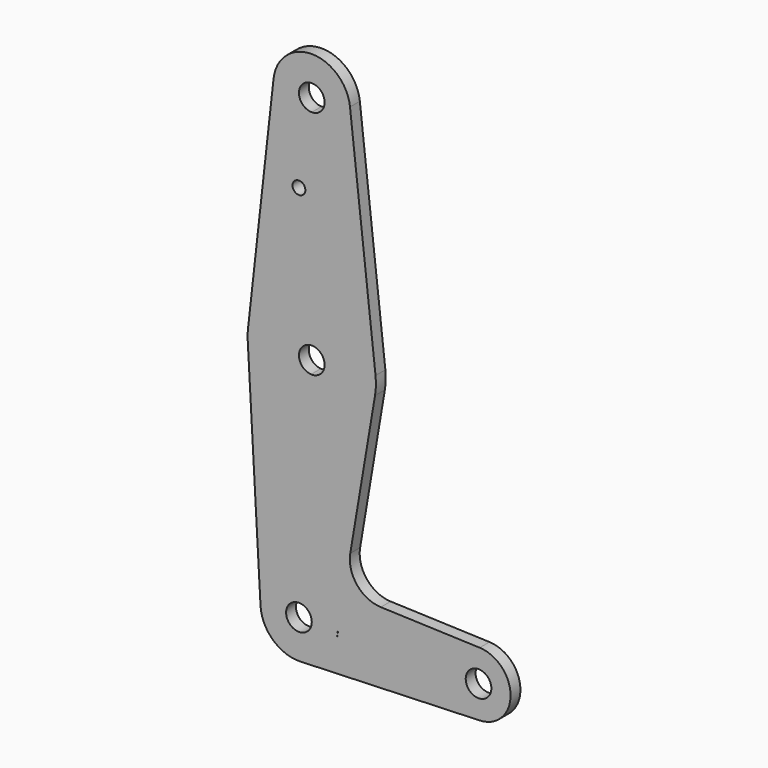
from build123d import *

# Parameters (mm, degrees)
F0_R     = 1.5875
F1_DEPTH = 3.048


with BuildPart() as f1:
    # F0 (on Front) → F1 (new body)
    with BuildSketch(Plane.XZ):
        with BuildLine():
            ThreePointArc((47.638384, 0), (44.463384, 3.175), (41.288384, 0))
            ThreePointArc((41.288384, 0), (44.463384, -3.175), (47.638384, 0))
        make_face()
        with BuildLine():
            ThreePointArc((6.35, 114.3), (0.929936, 116.545064), (3.175, 111.125))
            ThreePointArc((3.175, 111.125), (5.420064, 112.054936), (6.35, 114.3))
        make_face()
        with BuildLine():
            Line((12.707548, 18.074335), (18.835395, 54.469139))
            ThreePointArc((18.835395, 54.469139), (19.049719, 56.665666), (18.957459, 58.870695))
            Line((18.957459, 58.870695), (12.641004, 115.358487))
            ThreePointArc((12.641004, 115.358487), (3.175, 123.825), (-6.291004, 115.358487))
            Line((-6.291004, 115.358487), (-12.607459, 58.870695))
            ThreePointArc((-12.607459, 58.870695), (-12.699678, 57.547593), (-12.681171, 56.221411))
            Line((-12.681171, 56.221411), (-9.515411, -0.53079))
            ThreePointArc((-9.515411, -0.53079), (-6.423296, -7.040315), (0.341764, -9.524073))
            Line((0.341764, -9.524073), (44.747967, -7.930593))
            ThreePointArc((44.747967, -7.930593), (52.399082, 0), (44.747967, 7.930593))
            Line((44.747967, 7.930593), (20.262296, 8.809242))
            ThreePointArc((20.262296, 8.809242), (14.385888, 11.730239), (12.707548, 18.074335))
        make_face()
        with BuildLine():
            ThreePointArc((0.176253, 3.170104), (2.306537, 2.18186), (3.175, 0))
            ThreePointArc((3.175, 0), (-2.306537, -2.18186), (0.176253, 3.170104))
        make_face(mode=Mode.SUBTRACT)
        with BuildLine():
            Line((0.52915, 9.517349), (0.529048, 9.515508))
            ThreePointArc((0.529048, 9.515508), (0.435427, 9.520251), (0.341764, 9.524073))
            Line((0.341764, 9.524073), (0.52915, 9.517349))
        make_face(mode=Mode.SUBTRACT)
        with BuildLine():
            ThreePointArc((9.397924, -1.582342), (9.497076, -0.793931), (9.530203, 0))
            Line((9.530203, 0), (9.664345, 0))
            Line((9.664345, 0), (9.397924, -1.582342))
        make_face(mode=Mode.SUBTRACT)
        with BuildLine():
            ThreePointArc((6.35, 57.105903), (5.35686, 54.799366), (2.998747, 53.935799))
            ThreePointArc((2.998747, 53.935799), (0.001224, 57.194063), (3.175, 60.280903))
            ThreePointArc((3.175, 60.280903), (5.420064, 59.350967), (6.35, 57.105903))
        make_face(mode=Mode.SUBTRACT)
        with BuildLine():
            ThreePointArc((47.638384, 0), (44.463384, -3.175), (41.288384, 0))
            ThreePointArc((41.288384, 0), (44.463384, 3.175), (47.638384, 0))
        make_face(mode=Mode.SUBTRACT)
        with Locations((0, 93.631103)):
            Circle(F0_R, mode=Mode.SUBTRACT)
        with BuildLine():
            ThreePointArc((6.35, 114.3), (5.420064, 112.054936), (3.175, 111.125))
            ThreePointArc((3.175, 111.125), (0.929936, 116.545064), (6.35, 114.3))
        make_face(mode=Mode.SUBTRACT)
    extrude(amount=F1_DEPTH)


solid = f1.part
